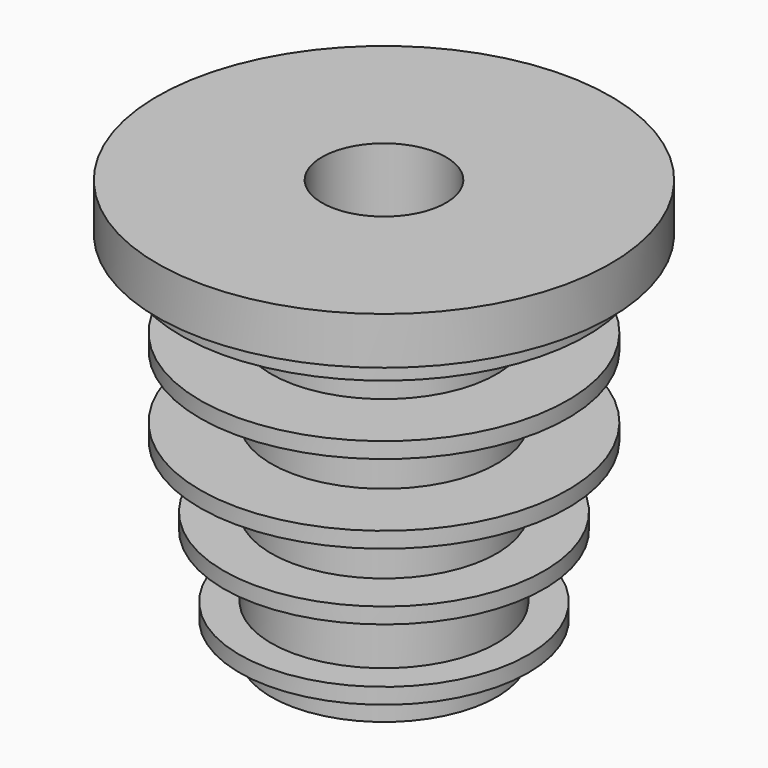
from build123d import *


with BuildPart() as f1:
    # F0 (on Right) → F1 (revolve)
    with BuildSketch(Plane.YZ):
        Polygon((-3.895093, -26.540816), (-3.895093, -22.984773), (-3.895093, -0.040816), (-14.320289, -0.040816), (-14.320289, -3.040816), (-12.820289, -3.040816), (-12.820289, -4.540816), (-7.110916, -4.540816), (-7.110916, -8.540816), (-11.610916, -8.540816), (-11.610916, -9.540816), (-7.110916, -9.540816), (-7.110916, -13.540816), (-11.610916, -13.540816), (-11.610916, -14.540816), (-7.110916, -14.540816), (-7.110916, -18.540816), (-10.110916, -18.540816), (-10.110916, -19.540816), (-7.110916, -19.540816), (-7.110916, -23.540816), (-9.110916, -23.540816), (-9.110916, -24.540816), (-7.110916, -24.540816), (-7.110916, -26.540816), align=None)
    revolve(axis=Axis((0, 0.030862, -13.309226), (0, 0, -1)))


solid = f1.part
